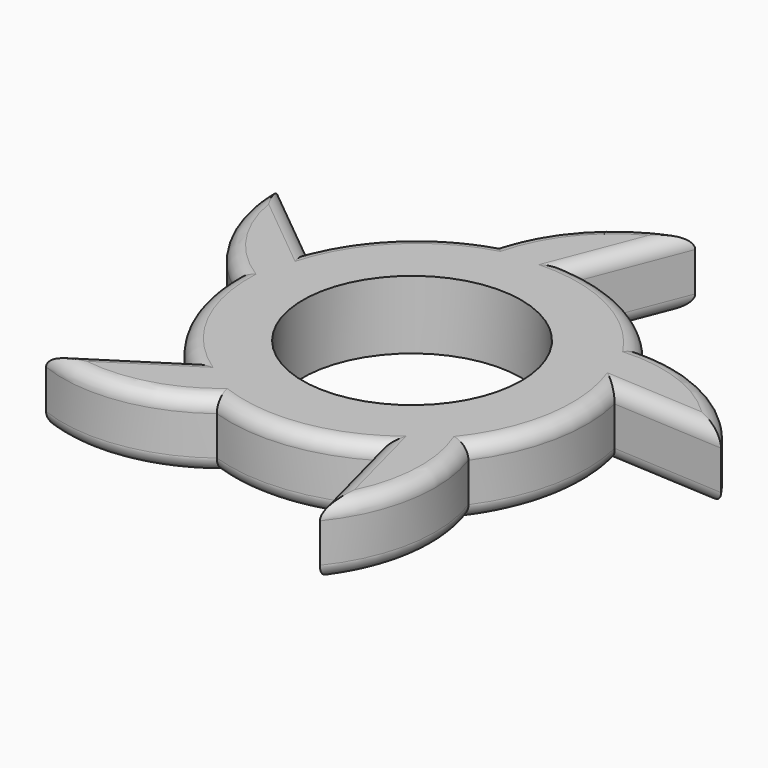
from build123d import *

# Parameters (mm, degrees)
F0_R     = 11.2
F1_DEPTH = 7
F2_R     = 1.5


with BuildPart() as f1:
    # F0 (on Top) → F1 (new body)
    with BuildSketch(Plane.XY):
        with BuildLine():
            Line((1.888376, 18.040571), (6.048676, 28.70488))
            ThreePointArc((6.048676, 28.70488), (-1.064452, 24.647482), (-5.33977, 17.663163))
            ThreePointArc((-5.33977, 17.663163), (-12.081682, 13.74468), (-16.574063, 7.370796))
            Line((-16.574063, 7.370796), (-25.430819, 14.622928))
            ThreePointArc((-25.430819, 14.622928), (-23.770082, 6.604137), (-18.448746, 0.379795))
            ThreePointArc((-18.448746, 0.379795), (-16.805413, -7.243023), (-12.13171, -13.485169))
            Line((-12.13171, -13.485169), (-21.765786, -19.667413))
            ThreePointArc((-21.765786, -19.667413), (-13.626267, -20.565901), (-6.062182, -17.428437))
            ThreePointArc((-6.062182, -17.428437), (1.695366, -18.221114), (9.076253, -15.705089))
            Line((9.076253, -15.705089), (11.978824, -26.778058))
            ThreePointArc((11.978824, -26.778058), (15.348587, -19.314563), (14.702111, -11.151161))
            ThreePointArc((14.702111, -11.151161), (17.853206, -4.018245), (17.741143, 3.778891))
            Line((17.741143, 3.778891), (29.169107, 3.117663))
            ThreePointArc((29.169107, 3.117663), (23.112215, 8.628845), (15.148586, 10.53664))
            ThreePointArc((15.148586, 10.53664), (9.338523, 15.737702), (1.888376, 18.040571))
        make_face()
        Circle(F0_R, mode=Mode.SUBTRACT)
    extrude(amount=F1_DEPTH)

    # F2
    f2_edges = [f1.edges().sort_by_distance(p)[0] for p in [
        (-13.626267, -20.565901, 7),
        (1.695366, -18.221114, 7),
        (15.348587, -19.314563, 7),
        (10.527539, -21.241573, 7),
        (17.853206, -4.018245, 7),
        (23.112215, 8.628845, 7),
        (23.455125, 3.448277, 7),
        (9.338523, 15.737702, 7),
        (-1.064452, 24.647482, 7),
        (3.968526, 23.372726, 7),
        (-12.081682, 13.74468, 7),
        (-21.002441, 10.996862, 7),
        (-23.770082, 6.604137, 7),
        (-16.805413, -7.243023, 7),
        (-16.948748, -16.576291, 7),
        (15.348587, -19.314563, 0),
        (17.853206, -4.018245, 0),
        (23.455125, 3.448277, 0),
        (1.695366, -18.221114, 0),
        (-13.626267, -20.565901, 0),
        (-16.805413, -7.243023, 0),
        (-23.770082, 6.604137, 0),
        (-12.081682, 13.74468, 0),
        (-21.002441, 10.996862, 0),
        (-1.064452, 24.647482, 0),
        (3.968526, 23.372726, 0),
        (23.112215, 8.628845, 0),
        (9.338523, 15.737702, 0),
    ]]
    fillet(f2_edges, radius=F2_R)


solid = f1.part
